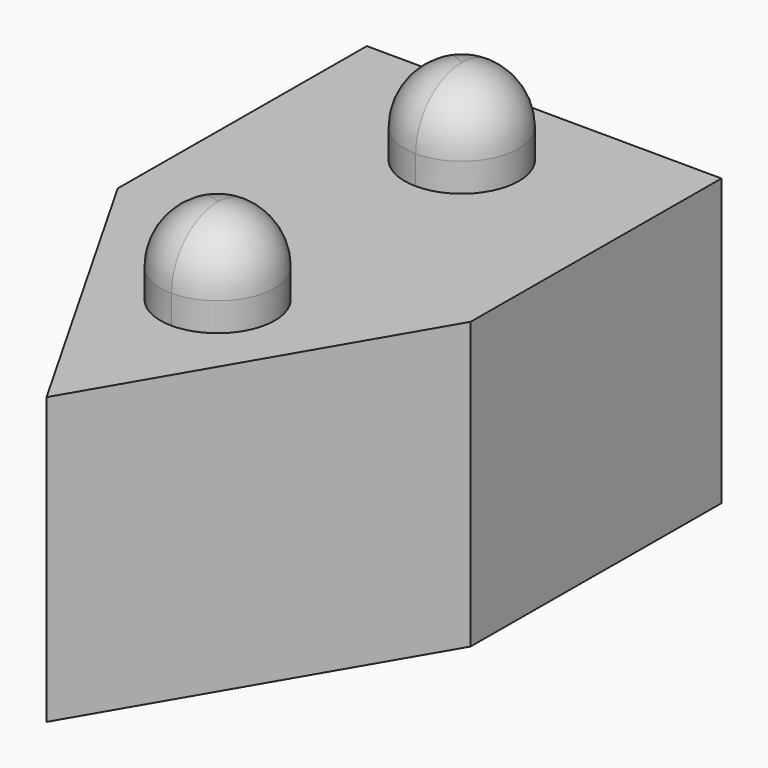
from build123d import *

# Parameters (mm, degrees)
F1_DEPTH = 50
F2_DEPTH = 65
F3_R     = 10
F5_ANGLE = -149


with BuildPart() as f1:
    # F0 (on Top) → F1 (new body)
    with BuildSketch(Plane.XY):
        with BuildLine():
            Line((17.6526700227, 31.4716789257), (-36.8578768761, 62.0470002943))
            Line((-36.8578768761, 62.0470002943), (-22.982297547, 38.6886805081))
            ThreePointArc((-22.982297547, 38.6886805081), (-12.9289992244, 38.7823343206), (-7.8751203144, 30.0911959508))
            ThreePointArc((-7.8751203144, 30.0911959508), (-9.1839819445, 25.1450748608), (-12.7679430817, 21.4937113934))
            Line((-12.7679430817, 21.4937113934), (0, 0))
            Line((0, 0), (4.1072919863, -6.9142655162))
            ThreePointArc((4.1072919863, -6.9142655162), (14.160590309, -6.8206117038), (19.214469219, -15.5117500736))
            ThreePointArc((19.214469219, -15.5117500736), (17.9056075888, -20.4578711635), (14.3216464517, -24.1092346309))
            Line((14.3216464517, -24.1092346309), (18.428938438, -31.0235001472))
            Line((18.428938438, -31.0235001472), (45.2960776798, -15.063571295))
            Line((45.2960776798, -15.063571295), (17.6526700227, 31.4716789257))
        make_face()
        with BuildLine():
            Line((-22.982297547, 38.6886805081), (-36.8578768761, 62.0470002943))
            Line((-36.8578768761, 62.0470002943), (-36.0871754027, 0))
            Line((-36.0871754027, 0), (-8.2455254354, -46.8689737481))
            Line((-8.2455254354, -46.8689737481), (18.428938438, -31.0235001472))
            Line((18.428938438, -31.0235001472), (14.3216464517, -24.1092346309))
            ThreePointArc((14.3216464517, -24.1092346309), (0.6169846617, -20.6189273063), (4.1072919863, -6.9142655162))
            Line((4.1072919863, -6.9142655162), (0, 0))
            Line((0, 0), (-12.7679430817, 21.4937113934))
            ThreePointArc((-12.7679430817, 21.4937113934), (-26.4726048717, 24.9840187181), (-22.982297547, 38.6886805081))
        make_face()
    extrude(amount=F1_DEPTH)

    # F0 (on Top) → F2 (join)
    with BuildSketch(Plane.XY):
        with BuildLine():
            ThreePointArc((-7.8751203144, 30.0911959508), (-12.9289992244, 38.7823343206), (-22.982297547, 38.6886805081))
            Line((-22.982297547, 38.6886805081), (-12.7679430817, 21.4937113934))
            ThreePointArc((-12.7679430817, 21.4937113934), (-9.1839819445, 25.1450748608), (-7.8751203144, 30.0911959508))
        make_face()
        with BuildLine():
            Line((-12.7679430817, 21.4937113934), (-22.982297547, 38.6886805081))
            ThreePointArc((-22.982297547, 38.6886805081), (-26.4726048717, 24.9840187181), (-12.7679430817, 21.4937113934))
        make_face()
        with BuildLine():
            Line((14.3216464517, -24.1092346309), (4.1072919863, -6.9142655162))
            ThreePointArc((4.1072919863, -6.9142655162), (0.6169846617, -20.6189273063), (14.3216464517, -24.1092346309))
        make_face()
        with BuildLine():
            ThreePointArc((19.214469219, -15.5117500736), (14.160590309, -6.8206117038), (4.1072919863, -6.9142655162))
            Line((4.1072919863, -6.9142655162), (14.3216464517, -24.1092346309))
            ThreePointArc((14.3216464517, -24.1092346309), (17.9056075888, -20.4578711635), (19.214469219, -15.5117500736))
        make_face()
    extrude(amount=F2_DEPTH)

    # F3
    f3_edges = [f1.edges().sort_by_distance(p)[0] for p in [
        (-27.87512, 30.091196, 65),
        (4.107292, -6.914266, 65),
    ]]
    fillet(f3_edges, radius=F3_R)


with BuildPart() as f1_1:
    # F4: moved
    add(f1.part.moved(Location((-45.5, 15, 0))))


with BuildPart() as f1_2:
    # F5: moved
    add(f1_1.part.rotate(Axis((-0.2039223202, -0.063571295, 25), (0, 0, -1)), F5_ANGLE))


solid = f1_2.part
